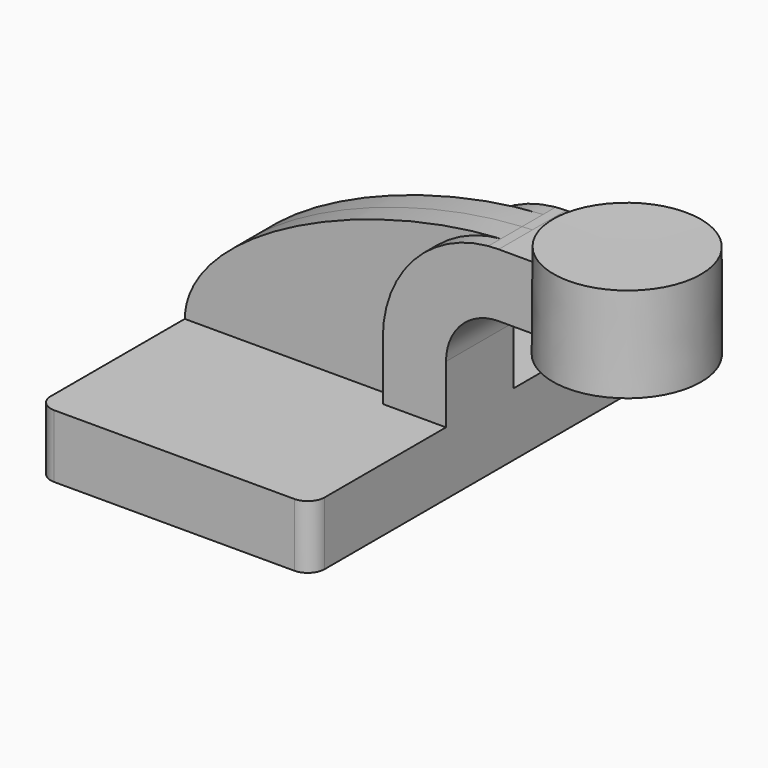
from build123d import *

# Parameters (mm, degrees)
F1_DEPTH = 63.5
F2_DEPTH = 12.7
F3_DEPTH = 7.9375
F5_R     = 5.08


with BuildPart() as f1:
    # F0 (on Front) → F1 (new body, symmetric)
    with BuildSketch(Plane.XZ):
        Polygon((41.275, -9.525), (41.275, 9.525), (22.225, 9.525), (-41.275, 9.525), (-41.275, -9.525), align=None)
    extrude(amount=F1_DEPTH, both=True)

    # F0 (on Front) → F2 (join, symmetric)
    with BuildSketch(Plane.XZ):
        with BuildLine():
            Line((22.225, 9.525), (41.275, 9.525))
            Line((41.275, 9.525), (41.275, 27.0002))
            ThreePointArc((41.275, 27.0002), (45.9246798487, 38.2255201513), (57.15, 42.8752))
            Line((57.15, 42.8752), (57.2056991218, 42.8752))
            Line((57.2056991218, 42.8752), (57.2056991218, 61.9252))
            Line((57.2056991218, 61.9252), (57.15, 61.9252))
            add(Edge.make_bspline(
                [(57.15, 61.9252), (56.1205296963, 61.8926068548), (55.0840965314, 61.8462999184), (54.0416201499, 61.786599637)],
                knots=[0, 0, 0, 0, 2.6733285205, 2.6733285205, 2.6733285205, 2.6733285205], degree=3))
            ThreePointArc((54.0416201499, 61.786599637), (31.3787389592, 50.5713206642), (22.225, 27.0002))
            Line((22.225, 27.0002), (22.225, 9.525))
        make_face()
        Polygon((57.2056991218, 61.9252), (57.2056991218, 42.8752), (85.6222819207, 42.8752), (85.7045002339, 61.9252), align=None)
    extrude(amount=F2_DEPTH, both=True)

    # F0 (on Front) → F3 (join, symmetric)
    with BuildSketch(Plane.XZ):
        with BuildLine():
            Line((-41.275, 9.525), (22.225, 9.525))
            Line((22.225, 9.525), (22.225, 27.0002))
            ThreePointArc((22.225, 27.0002), (31.3787389592, 50.5713206642), (54.0416201499, 61.786599637))
            add(Edge.make_bspline(
                [(54.0416201499, 61.786599637), (11.6024052654, 59.3562011022), (-40.8522579656, 34.7289555266), (-41.275, 9.525)],
                knots=[2.6733285205, 2.6733285205, 2.6733285205, 2.6733285205, 111.5045361635, 111.5045361635, 111.5045361635, 111.5045361635], degree=3))
        make_face()
    extrude(amount=F3_DEPTH, both=True)

    # F0 (on Front) → F4 (revolve)
    with BuildSketch(Plane.XZ):
        Polygon((85.7045002339, 61.9252), (85.6222819207, 42.8752), (85.6016725302, 38.1), (108.0056991218, 38.1), (108.0056991218, 66.675), (85.725, 66.675), align=None)
    revolve(axis=Axis((85.6633362651, 0, 52.3875), (0.0043158818, 0, 0.9999906865)))

    # F5
    f5_edges = [f1.edges().sort_by_distance(p)[0] for p in [
        (-41.275, 63.5, 0),
        (-41.275, -63.5, 0),
        (41.275, -63.5, 0),
        (41.275, 63.5, 0),
    ]]
    fillet(f5_edges, radius=F5_R)


solid = f1.part
